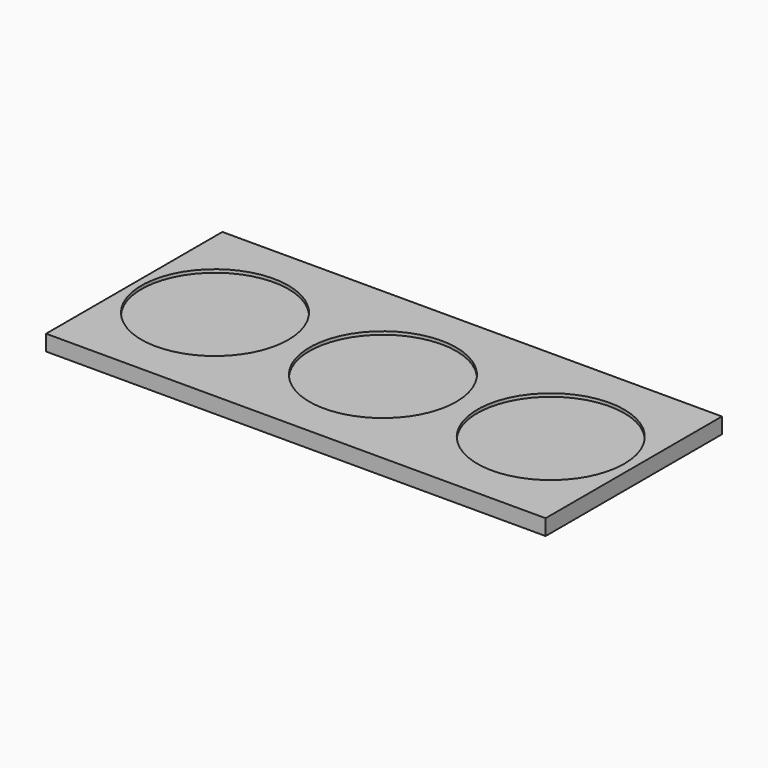
from build123d import *

# Parameters (mm, degrees)
F0_W     = 476
F0_H     = 210
F0_R     = 70
F1_DEPTH = 15
F2_DEPTH = 3


with BuildPart() as f1:
    # F0 (on Top) → F1 (new body)
    with BuildSketch(Plane.XY):
        with Locations((1.066327, 0)):
            Rectangle(F0_W, F0_H)
        with Locations((-160, 0)):
            Circle(F0_R, mode=Mode.SUBTRACT)
        Circle(F0_R, mode=Mode.SUBTRACT)
        with Locations((160, 0)):
            Circle(F0_R, mode=Mode.SUBTRACT)
        with Locations((-160, 0)):
            Circle(F0_R)
        Circle(F0_R)
        with Locations((160, 0)):
            Circle(F0_R)
    extrude(amount=-F1_DEPTH)

    # F0 (on Top) → F2 (cut)
    with BuildSketch(Plane.XY):
        with Locations((-160, 0)):
            Circle(F0_R)
        Circle(F0_R)
        with Locations((160, 0)):
            Circle(F0_R)
    extrude(amount=-F2_DEPTH, mode=Mode.SUBTRACT)


solid = f1.part
